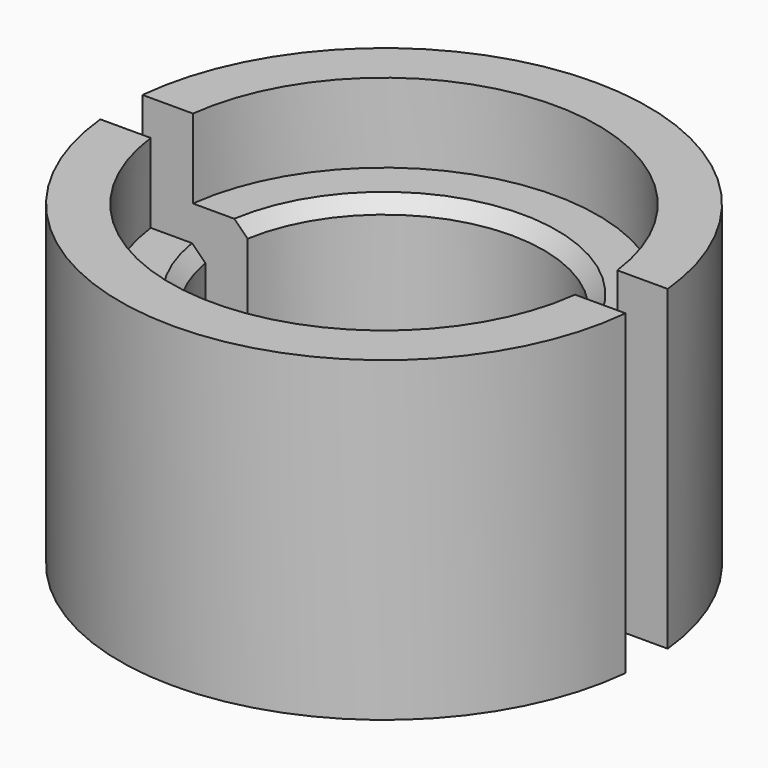
from build123d import *

# Parameters (mm, degrees)
F0_R     = 10
F0_R_2   = 6.05
F1_DEPTH = 12
F2_R     = 8.1
F3_DEPTH = 3
F4_R     = 8.1
F5_DEPTH = 3
F6_SIZE  = 0.5
F7_W     = 24
F7_H     = 2
F8_DEPTH = 12.001


with BuildPart() as f1:
    # F0 (on Top) → F1 (new body)
    with BuildSketch(Plane.XY):
        Circle(F0_R)
        Circle(F0_R_2, mode=Mode.SUBTRACT)
    extrude(amount=F1_DEPTH)

    # F2 (on face) → F3 (cut)
    with BuildSketch(Plane(origin=(0, 0, 0), x_dir=(1, 0, 0), z_dir=(0, 0, -1))):
        Circle(F2_R)
    extrude(amount=-F3_DEPTH, mode=Mode.SUBTRACT)

    # F4 (on face) → F5 (cut)
    with BuildSketch(Plane.XY.offset(12)):
        Circle(F4_R)
    extrude(amount=-F5_DEPTH, mode=Mode.SUBTRACT)

    # F6
    f6_edges = [f1.edges().sort_by_distance(p)[0] for p in [
        (-6.05, 0, 9),
        (-6.05, 0, 3),
    ]]
    chamfer(f6_edges, length=F6_SIZE)

    # F7 (on face) → F8 (cut, through all)
    with BuildSketch(Plane.XY.offset(12)):
        Rectangle(F7_W, F7_H)
    extrude(amount=-F8_DEPTH, mode=Mode.SUBTRACT)


solid = f1.part
